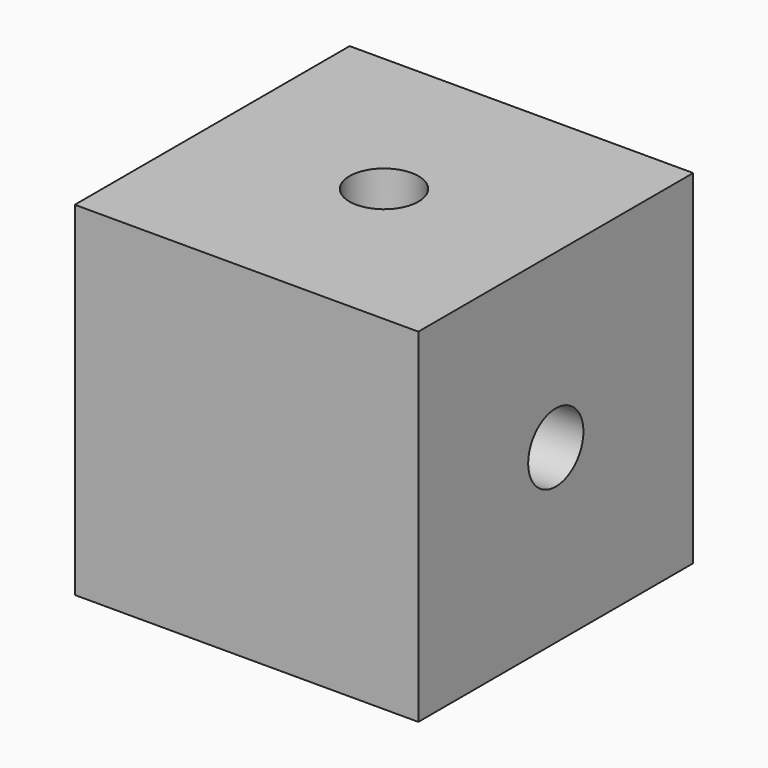
from build123d import *

# Parameters (mm, degrees)
F0_W           = 25.4
F0_H           = 25.4
F1_DEPTH       = 25.4
F5_D           = 5.1054
F5_DEPTH       = 16.51
F5_TIP         = 1.5338169022
F5_ON_F3_D     = 5.1054
F5_ON_F3_DEPTH = 16.51
F5_ON_F3_TIP   = 1.5338169022
F5_ON_F4_D     = 5.1054
F5_ON_F4_DEPTH = 16.51
F5_ON_F4_TIP   = 1.5338169022


with BuildPart() as f1:
    # F0 (on Top) → F1 (new body)
    with BuildSketch(Plane.XY):
        Rectangle(F0_W, F0_H)
    extrude(amount=F1_DEPTH)

    # F5
    with Locations(Plane.XY.offset(25.4)):
        with Locations((0, 0)):
            Hole(F5_D / 2, depth=F5_DEPTH)
            with Locations((0, 0, -(F5_DEPTH + F5_TIP / 2))):  # 118° drill point
                Cone(0, F5_D / 2, F5_TIP, mode=Mode.SUBTRACT)

    # F5 on F3
    with Locations(Plane.YZ.offset(12.7)):
        with Locations((0, 12.7)):
            Hole(F5_ON_F3_D / 2, depth=F5_ON_F3_DEPTH)
            with Locations((0, 0, -(F5_ON_F3_DEPTH + F5_ON_F3_TIP / 2))):  # 118° drill point
                Cone(0, F5_ON_F3_D / 2, F5_ON_F3_TIP, mode=Mode.SUBTRACT)

    # F5 on F4
    with Locations(Plane(origin=(0, 12.7, 0), x_dir=(-1, 0, 0), z_dir=(0, 1, 0))):
        with Locations((0, 12.7)):
            Hole(F5_ON_F4_D / 2, depth=F5_ON_F4_DEPTH)
            with Locations((0, 0, -(F5_ON_F4_DEPTH + F5_ON_F4_TIP / 2))):  # 118° drill point
                Cone(0, F5_ON_F4_D / 2, F5_ON_F4_TIP, mode=Mode.SUBTRACT)


solid = f1.part
